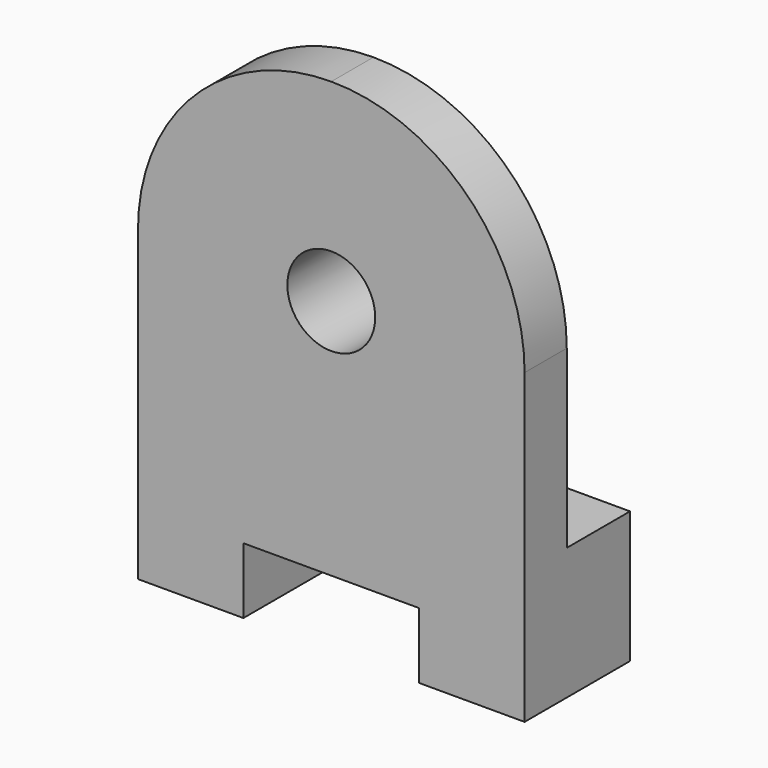
from build123d import *

# Parameters (mm, degrees)
F1_DEPTH = 30
F2_DEPTH = 12
F3_DEPTH = 28


with BuildPart() as f1:
    # F0 (on Front) → F1 (new body)
    with BuildSketch(Plane.XZ):
        Polygon((-36.498324, -29.017857), (-80.498324, -29.017857), (-80.498324, -59.017857), (-56.498324, -59.017857), (-56.498324, -44.017857), (-36.498324, -44.017857), (-16.498324, -44.017857), (-16.498324, -59.017857), (7.501676, -59.017857), (7.501676, -29.017857), align=None)
    extrude(amount=-F1_DEPTH)

    # F0 (on Front) → F2 (join)
    with BuildSketch(Plane.XZ):
        with BuildLine():
            ThreePointArc((7.501676, 10.982143), (-5.385626, 42.094841), (-36.498324, 54.982143))
            ThreePointArc((-36.498324, 54.982143), (-67.611023, 42.094841), (-80.498324, 10.982143))
            Line((-80.498324, 10.982143), (-80.498324, -29.017857))
            Line((-80.498324, -29.017857), (-36.498324, -29.017857))
            Line((-36.498324, -29.017857), (7.501676, -29.017857))
            Line((7.501676, -29.017857), (7.501676, 10.982143))
        make_face()
        with BuildLine():
            ThreePointArc((-36.498324, -9.017857), (-56.498324, 10.982143), (-36.498324, 30.982143))
            ThreePointArc((-36.498324, 30.982143), (-16.498324, 10.982143), (-36.498324, -9.017857))
        make_face(mode=Mode.SUBTRACT)
    extrude(amount=-F2_DEPTH)

    # F0 (on Front) → F3 (join)
    with BuildSketch(Plane.XZ):
        with BuildLine():
            ThreePointArc((-36.498324, -9.017857), (-16.498324, 10.982143), (-36.498324, 30.982143))
            ThreePointArc((-36.498324, 30.982143), (-56.498324, 10.982143), (-36.498324, -9.017857))
        make_face()
        with BuildLine():
            ThreePointArc((-36.498324, 0.982143), (-46.498324, 10.982143), (-36.498324, 20.982143))
            ThreePointArc((-36.498324, 20.982143), (-26.498324, 10.982143), (-36.498324, 0.982143))
        make_face(mode=Mode.SUBTRACT)
    extrude(amount=-F3_DEPTH)


solid = f1.part
